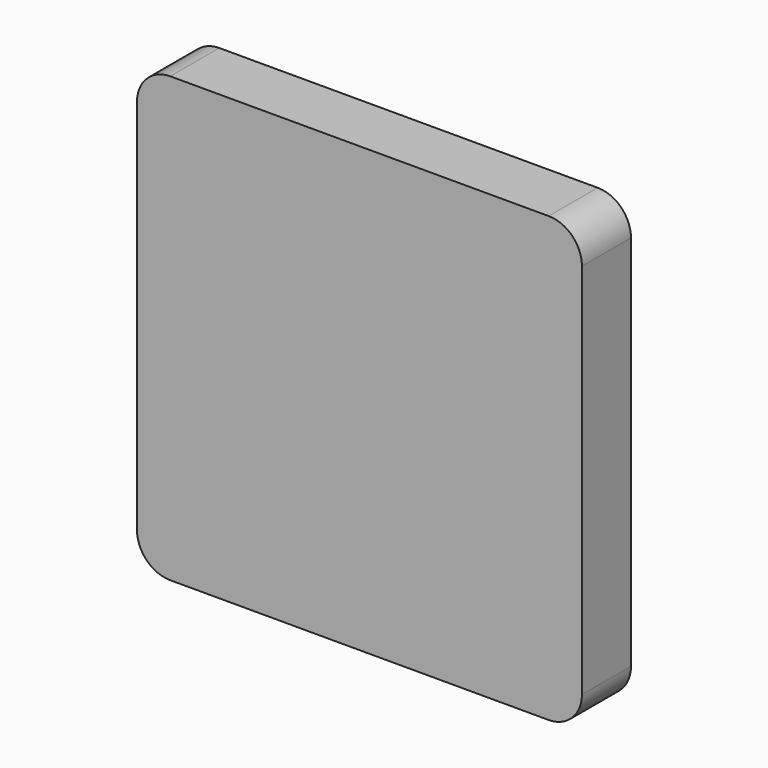
from build123d import *

# Parameters (mm, degrees)
F0_W     = 50.98542
F0_H     = 50.84064
F1_DEPTH = 3.512185
F2_R     = 3.81


with BuildPart() as f1:
    # F0 (on Front) → F1 (new body, symmetric)
    with BuildSketch(Plane.XZ):
        with Locations((25.49271, 25.42032)):
            Rectangle(F0_W, F0_H)
    extrude(amount=F1_DEPTH, both=True)

    # F2
    f2_edges = [f1.edges().sort_by_distance(p)[0] for p in [
        (50.98542, 0, 50.84064),
        (50.98542, 0, 0),
        (0, 0, 0),
        (0, 0, 50.84064),
    ]]
    fillet(f2_edges, radius=F2_R)


solid = f1.part
